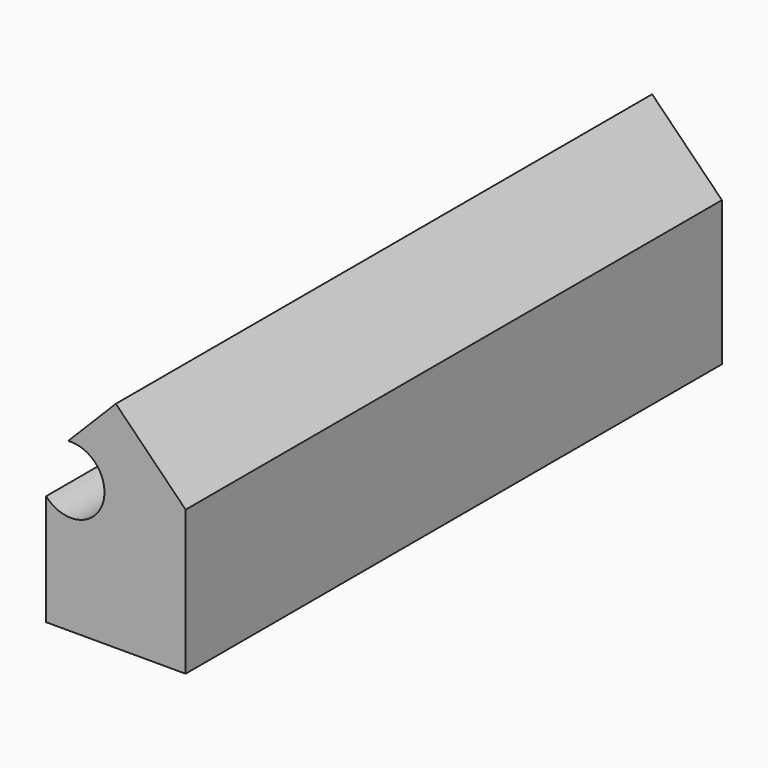
from build123d import *

# Parameters (mm, degrees)
F1_DEPTH = 254
F3_D     = 25.4


with BuildPart() as f1:
    # F0 (on Front) → F1 (new body)
    with BuildSketch(Plane.XZ):
        Polygon((0, 49.849775), (-26.433898, 23.133671), (-26.433898, -31.603329), (26.446328, -31.603329), (26.446328, 23.133671), align=None)
    extrude(amount=F1_DEPTH)

    # F3 (through all)
    with Locations(Plane.XZ.offset(254)):
        with Locations((-17.007671, 18.930277)):
            Hole(F3_D / 2)


solid = f1.part
